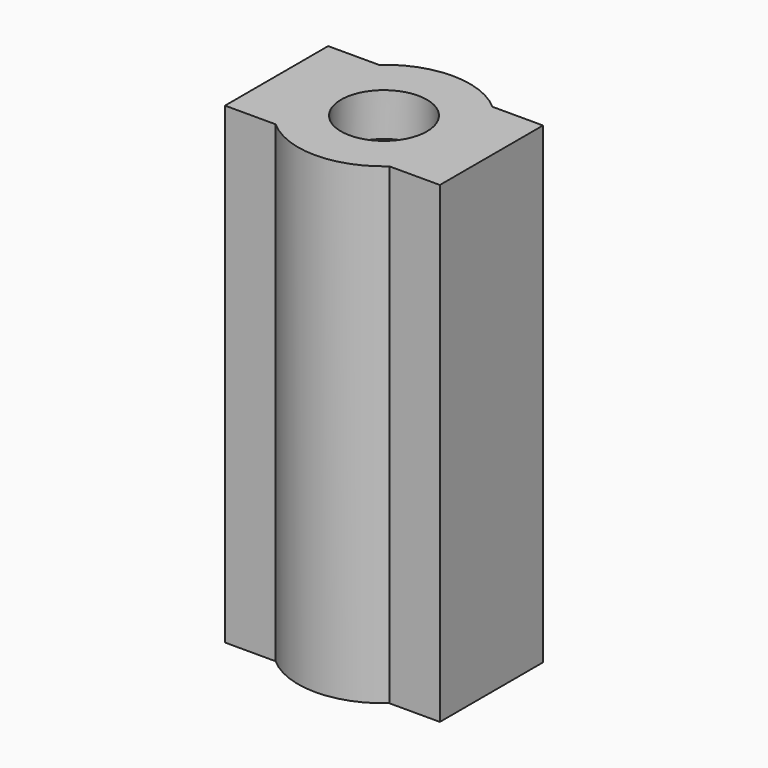
from build123d import *

# Parameters (mm, degrees)
F1_DEPTH = 254
F2_R     = 25.4
F3_DEPTH = 25.4


with BuildPart() as f1:
    # F0 (on Top) → F1 (new body)
    with BuildSketch(Plane.XY):
        with BuildLine():
            Line((-63.5, -38.1), (-33.601042, -38.1))
            ThreePointArc((-33.601042, -38.1), (0, -50.8), (33.601042, -38.1))
            Line((33.601042, -38.1), (63.5, -38.1))
            Line((63.5, -38.1), (63.5, 38.1))
            Line((63.5, 38.1), (33.601042, 38.1))
            ThreePointArc((33.601042, 38.1), (0, 50.8), (-33.601042, 38.1))
            Line((-33.601042, 38.1), (-63.5, 38.1))
            Line((-63.5, 38.1), (-63.5, -38.1))
        make_face()
    extrude(amount=F1_DEPTH)

    # F2 (on face) → F3 (join)
    with BuildSketch(Plane.XY.offset(254)):
        with BuildLine():
            ThreePointArc((33.601042, 38.1), (0, 50.8), (-33.601042, 38.1))
            Line((-33.601042, 38.1), (-63.5, 38.1))
            Line((-63.5, 38.1), (-63.5, -38.1))
            Line((-63.5, -38.1), (-33.601042, -38.1))
            ThreePointArc((-33.601042, -38.1), (0, -50.8), (33.601042, -38.1))
            Line((33.601042, -38.1), (63.5, -38.1))
            Line((63.5, -38.1), (63.5, 38.1))
            Line((63.5, 38.1), (33.601042, 38.1))
        make_face()
        Circle(F2_R, mode=Mode.SUBTRACT)
    extrude(amount=F3_DEPTH)


solid = f1.part
